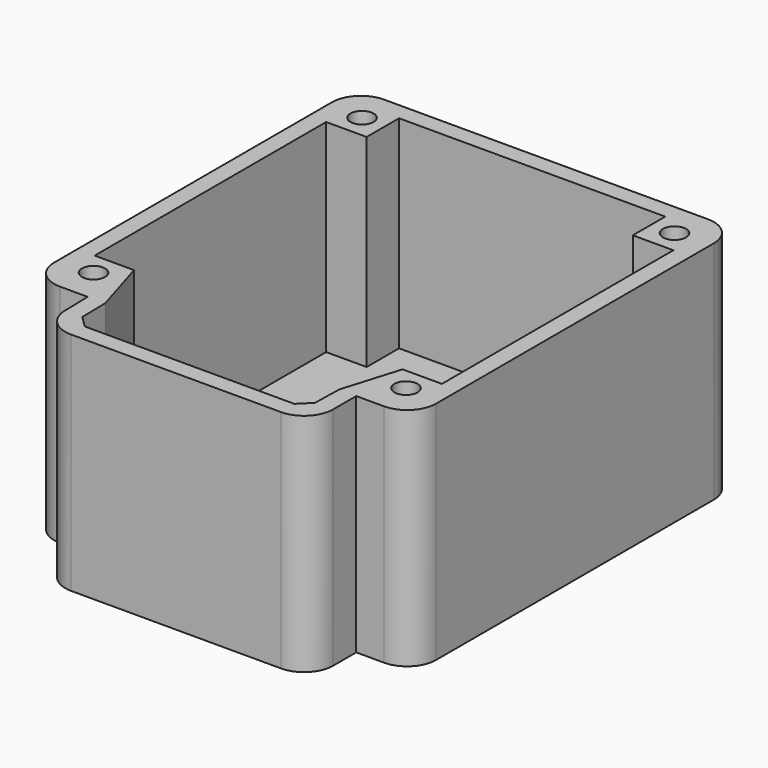
from build123d import *

# Parameters (mm, degrees)
F0_R     = 2
F1_DEPTH = 35
F2_DEPTH = 4


with BuildPart() as f1:
    # F0 (on Top) → F1 (new body)
    with BuildSketch(Plane.XY):
        with BuildLine():
            ThreePointArc((-0.098751, 4.899238), (1.400506, 1.429019), (4.900234, 0))
            Line((4.900234, 0), (41.2, 0))
            ThreePointArc((41.2, 0), (44.735534, 1.464466), (46.2, 5))
            Line((46.2, 5), (46.2, 10))
            Line((46.2, 10), (51, 10))
            ThreePointArc((51, 10), (54.535534, 11.464466), (56, 15))
            Line((56, 15), (56, 30))
            Line((56, 30), (56, 75))
            ThreePointArc((56, 75), (54.535534, 78.535534), (51, 80))
            Line((51, 80), (-5, 80))
            ThreePointArc((-5, 80), (-8.535534, 78.535534), (-10, 75))
            Line((-10, 75), (-10, 30))
            Line((-10, 30), (-10, 15))
            ThreePointArc((-10, 15), (-8.535534, 11.464466), (-5, 10))
            Line((-5, 10), (-0.201564, 10))
            Line((-0.201564, 10), (-0.098751, 4.899238))
        make_face()
        with Locations((-4, 16)):
            Circle(F0_R, mode=Mode.SUBTRACT)
        with Locations((50, 16)):
            Circle(F0_R, mode=Mode.SUBTRACT)
        with Locations((-4, 74)):
            Circle(F0_R, mode=Mode.SUBTRACT)
        Polygon((-7, 30), (-7, 70), (0, 70), (0, 77), (23, 77), (46, 77), (46, 70), (53, 70), (53, 30), (53, 20), (46.201564, 20), (43.202173, 10.060457), (43.09936, 4.959695), (41.099766, 3), (23.1, 3), (22.9, 3), (4.900234, 3), (2.90064, 4.959695), (2.797827, 10.060457), (-0.201564, 20), (-7, 20), align=None, mode=Mode.SUBTRACT)
        with Locations((50, 74)):
            Circle(F0_R, mode=Mode.SUBTRACT)
    extrude(amount=F1_DEPTH)

    # F0 (on Top) → F2 (join)
    with BuildSketch(Plane.XY):
        with BuildLine():
            ThreePointArc((-0.098751, 4.899238), (1.400506, 1.429019), (4.900234, 0))
            Line((4.900234, 0), (41.2, 0))
            ThreePointArc((41.2, 0), (44.735534, 1.464466), (46.2, 5))
            Line((46.2, 5), (46.2, 10))
            Line((46.2, 10), (51, 10))
            ThreePointArc((51, 10), (54.535534, 11.464466), (56, 15))
            Line((56, 15), (56, 30))
            Line((56, 30), (56, 75))
            ThreePointArc((56, 75), (54.535534, 78.535534), (51, 80))
            Line((51, 80), (-5, 80))
            ThreePointArc((-5, 80), (-8.535534, 78.535534), (-10, 75))
            Line((-10, 75), (-10, 30))
            Line((-10, 30), (-10, 15))
            ThreePointArc((-10, 15), (-8.535534, 11.464466), (-5, 10))
            Line((-5, 10), (-0.201564, 10))
            Line((-0.201564, 10), (-0.098751, 4.899238))
        make_face()
        with Locations((-4, 16)):
            Circle(F0_R, mode=Mode.SUBTRACT)
        with Locations((50, 16)):
            Circle(F0_R, mode=Mode.SUBTRACT)
        with Locations((-4, 74)):
            Circle(F0_R, mode=Mode.SUBTRACT)
        Polygon((-7, 30), (-7, 70), (0, 70), (0, 77), (23, 77), (46, 77), (46, 70), (53, 70), (53, 30), (53, 20), (46.201564, 20), (43.202173, 10.060457), (43.09936, 4.959695), (41.099766, 3), (23.1, 3), (22.9, 3), (4.900234, 3), (2.90064, 4.959695), (2.797827, 10.060457), (-0.201564, 20), (-7, 20), align=None, mode=Mode.SUBTRACT)
        with Locations((50, 74)):
            Circle(F0_R, mode=Mode.SUBTRACT)
        Polygon((0, 70), (-7, 70), (-7, 30), (-7, 20), (-0.201564, 20), (2.797827, 10.060457), (2.90064, 4.959695), (4.900234, 3), (22.9, 3), (23.1, 3), (41.099766, 3), (43.09936, 4.959695), (43.202173, 10.060457), (46.201564, 20), (53, 20), (53, 30), (53, 70), (46, 70), (46, 77), (23, 77), (0, 77), align=None)
        with Locations((50, 74)):
            Circle(F0_R)
        with Locations((-4, 74)):
            Circle(F0_R)
        with Locations((-4, 16)):
            Circle(F0_R)
        with Locations((50, 16)):
            Circle(F0_R)
    extrude(amount=-F2_DEPTH)


solid = f1.part
